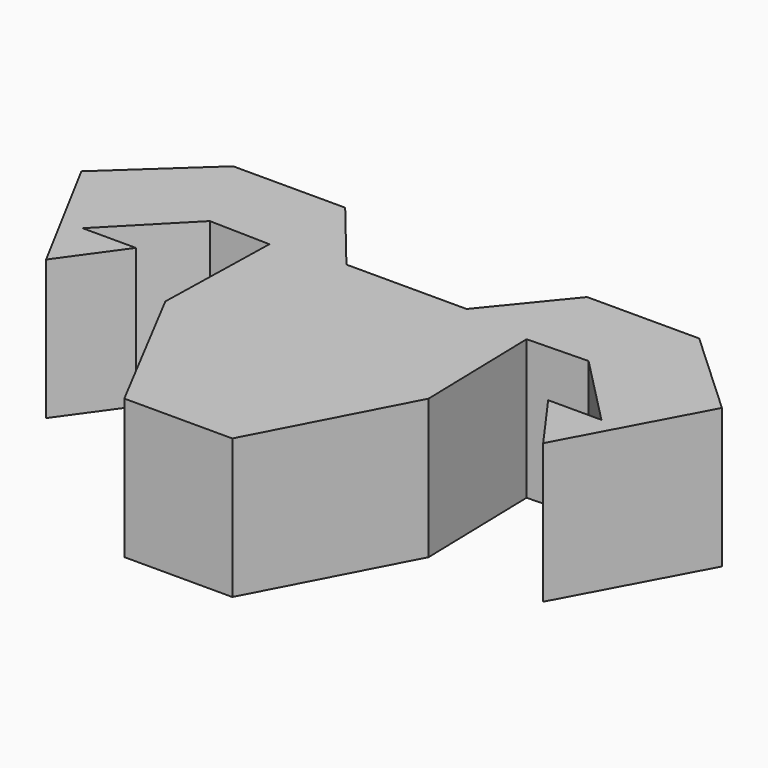
from build123d import *

# Parameters (mm, degrees)
F1_DEPTH = 25.4


with BuildPart() as f1:
    # F0 (on Top) → F1 (new body)
    with BuildSketch(Plane.XY):
        Polygon((-34.46155, 50.233849), (-23.393927, 49.967159), (-23.94763, 26.988508), (-9.828218, 0), (0, 0), (0, 51.905122), (-10.935623, 51.905122), (-22.009673, 65.47083), (-42.407111, 65.47083), (-58.277182, 50.797712), (-45.224991, 26.458234), (-37.513338, 37.232004), (-47.203131, 37.232004), align=None)
        Polygon((0, 51.905122), (0, 0), (9.828218, 0), (23.94763, 26.988508), (23.393927, 49.967159), (34.46155, 50.233849), (47.203131, 37.232004), (37.513338, 37.232004), (45.224991, 26.458234), (58.277182, 50.797712), (42.407111, 65.47083), (22.009673, 65.47083), (10.935623, 51.905122), align=None)
    extrude(amount=F1_DEPTH)


solid = f1.part
